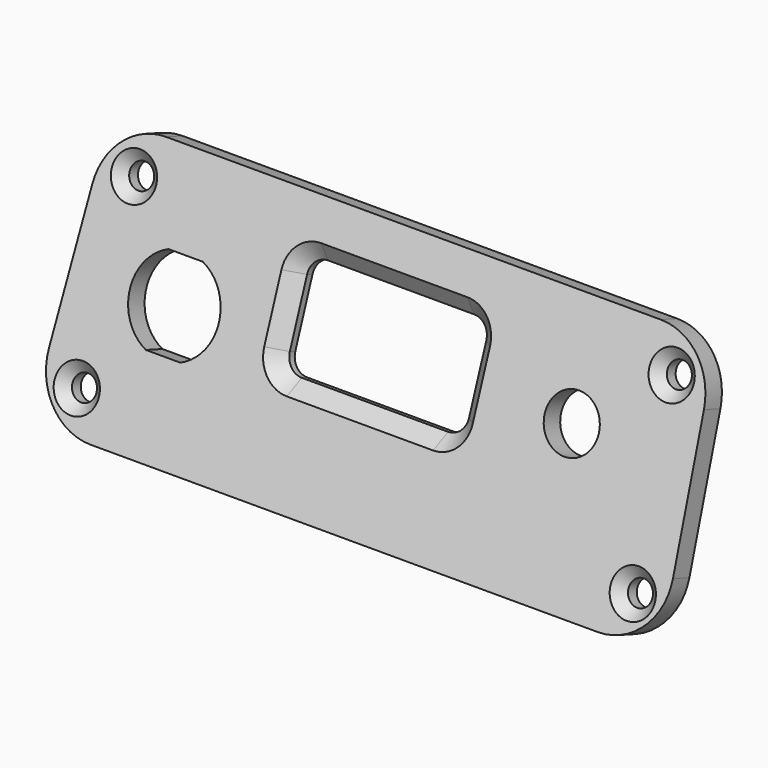
from build123d import *

# Parameters (mm, degrees)
SKETCH033_R             = 1.65
SKETCH033_R_2           = 3.7
PAD001_DEPTH            = 3
CHAMFER001_SIZE         = 2
CHAMFER002_SIZE         = 1.4
SKETCH035_R             = 1.5
POCKET009_DEPTH         = 1.5
BODY005_PLACEMENT_ANGLE = 340


with BuildPart() as part:
    # Sketch033 → Pad001 (new body)
    with BuildSketch(Plane.XZ):
        with BuildLine():
            Line((-33.808366, 37.4), (33.808366, 37.4))
            ThreePointArc((41.8, 29.765194), (39.33458, 35.18452), (33.808366, 37.4))
            Line((41.8, 29.765194), (42.65, 11.165194))
            ThreePointArc((34.658366, 2.8), (40.442878, 5.273779), (42.65, 11.165194))
            Line((34.658366, 2.8), (-34.658366, 2.8))
            ThreePointArc((-42.65, 11.165194), (-40.442878, 5.273779), (-34.658366, 2.8))
            Line((-42.65, 11.165194), (-41.8, 29.765194))
            ThreePointArc((-33.808366, 37.4), (-39.33458, 35.18452), (-41.8, 29.765194))
        make_face()
        with Locations((-36.75, 32.1)):
            Circle(SKETCH033_R, mode=Mode.SUBTRACT)
        with Locations((36.75, 32.1)):
            Circle(SKETCH033_R, mode=Mode.SUBTRACT)
        with Locations((-38, 8.1)):
            Circle(SKETCH033_R, mode=Mode.SUBTRACT)
        with Locations((38, 8.1)):
            Circle(SKETCH033_R, mode=Mode.SUBTRACT)
        with Locations((25.5, 23.3)):
            Circle(SKETCH033_R_2, mode=Mode.SUBTRACT)
        with BuildLine():
            Line((-11.25, 30.35), (8.75, 30.35))
            ThreePointArc((11, 28.1), (10.34099, 29.69099), (8.75, 30.35))
            Line((11, 28.1), (11, 19.5))
            ThreePointArc((8.75, 17.25), (10.34099, 17.90901), (11, 19.5))
            Line((8.75, 17.25), (-11.25, 17.25))
            ThreePointArc((-13.5, 19.5), (-12.84099, 17.90901), (-11.25, 17.25))
            Line((-13.5, 19.5), (-13.5, 28.1))
            ThreePointArc((-11.25, 30.35), (-12.84099, 29.69099), (-13.5, 28.1))
        make_face(mode=Mode.SUBTRACT)
        with BuildLine():
            Line((-30.35, 25.929165), (-25.65, 25.929165))
            ThreePointArc((-25.65, 14.670835), (-21.9, 20.3), (-25.65, 25.929165))
            Line((-30.35, 14.670835), (-25.65, 14.670835))
            ThreePointArc((-30.35, 25.929165), (-34.1, 20.3), (-30.35, 14.670835))
        make_face(mode=Mode.SUBTRACT)
    extrude(amount=PAD001_DEPTH)

    # Chamfer001
    chamfer001_edges = [part.edges().sort_by_distance(p)[0] for p in [
        (-1.25, -3, 30.35),
    ]]
    chamfer(chamfer001_edges, length=CHAMFER001_SIZE)

    # Chamfer002
    chamfer002_edges = [part.edges().sort_by_distance(p)[0] for p in [
        (-38.4, -3, 32.1),
        (-39.65, -3, 8.1),
        (35.1, -3, 32.1),
        (36.35, -3, 8.1),
    ]]
    chamfer(chamfer002_edges, length=CHAMFER002_SIZE)

    # Sketch035 → Pocket009 (cut)
    with BuildSketch(Plane.XZ):
        with Locations((25.5, 30.3)):
            Circle(SKETCH035_R)
    extrude(amount=POCKET009_DEPTH, mode=Mode.SUBTRACT)


with BuildPart() as part_1:
    # Body005 placement: moved
    add(part.part.moved(Location((0, -38, 0))).rotate(Axis((0, -38, 0), (1, 0, 0)), BODY005_PLACEMENT_ANGLE))


solid = part_1.part
